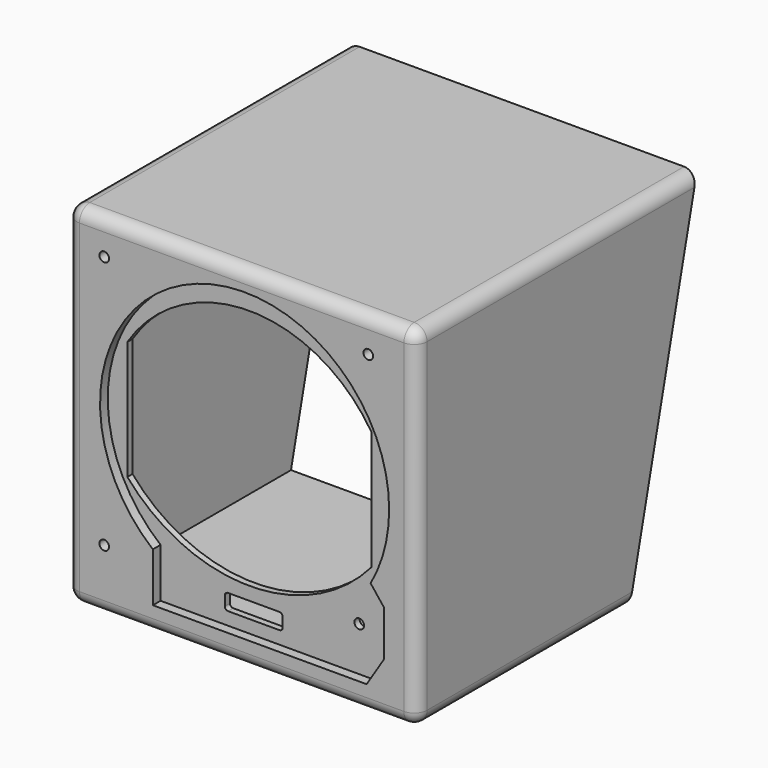
from build123d import *

# Parameters (mm, degrees)
F1_DEPTH      = 109
F2_T          = -3
F4_DEPTH      = 25
F5_W          = 102
F5_H          = 2
F6_DEPTH      = 51.5
F6_DEPTH_BACK = 51.5
F7_R          = 1.5
F7_R_2        = 1.501475
F8_DEPTH      = 25
F9_R          = 4


with BuildPart() as f1:
    # F0 (on Right) → F1 (new body)
    with BuildSketch(Plane.YZ):
        Polygon((32.782498, -54.038571), (58.951083, 54.961429), (-50.048917, 54.961429), (-50.048917, -54.038571), align=None)
    extrude(amount=F1_DEPTH)

    # F2
    f2_openings = [f1.faces().sort_by_distance(p)[0] for p in [
        (54.5, 45.86679, 0.461429),
    ]]
    offset(amount=F2_T, openings=f2_openings)

    # F3 (on face) → F4 (cut)
    with BuildSketch(Plane.XZ.offset(50.048917)):
        with BuildLine():
            ThreePointArc((94.634399, -18.293005), (98.931641, -7.648317), (100.395816, 3.737283))
            ThreePointArc((100.395816, 3.737283), (36.163407, 44.420381), (26.835173, -31.03756))
            ThreePointArc((26.835173, -31.03756), (63.70909, -40.488156), (94.634399, -18.293005))
        make_face()
        with BuildLine():
            ThreePointArc((94.634399, -18.293005), (63.70909, -40.488156), (26.835173, -31.03756))
            Line((26.835173, -31.03756), (26.835173, -46.354149))
            Line((26.835173, -46.354149), (93.383867, -46.354149))
            Line((93.383867, -46.354149), (98.736793, -37.863731))
            Line((98.736793, -37.863731), (98.736793, -23.499892))
            Line((98.736793, -23.499892), (94.634399, -18.293005))
        make_face()
    extrude(amount=-F4_DEPTH, mode=Mode.SUBTRACT)


with BuildPart() as f6:
    # F5 (on Top) → F6 (new body, two sides)
    with BuildSketch(Plane.XY) as f6_sk:
        with Locations((54.5, -46.048917)):
            Rectangle(F5_W, F5_H)
    extrude(amount=F6_DEPTH)
    extrude(f6_sk.sketch, amount=-F6_DEPTH_BACK)


with BuildPart() as f8_tool:
    # F7 (on face) → F8 (new body)
    with BuildSketch(Plane.XZ.offset(50.048917)):
        with BuildLine():
            ThreePointArc((92.5, 21.215899), (54.5, 42.111957), (16.5, 21.215899))
            Line((16.5, 21.215899), (16.5, -15.784101))
            ThreePointArc((16.5, -15.784101), (54.5, -33.287947), (92.5, -15.784101))
            Line((92.5, -15.784101), (92.5, 21.215899))
        make_face()
        with BuildLine():
            Line((63.846135, -37.367422), (47.846135, -37.367422))
            ThreePointArc((47.846135, -37.367422), (47.139028, -37.660315), (46.846135, -38.367422))
            Line((46.846135, -38.367422), (46.846135, -41.367422))
            ThreePointArc((46.846135, -41.367422), (47.139028, -42.074529), (47.846135, -42.367422))
            Line((47.846135, -42.367422), (63.846135, -42.367422))
            ThreePointArc((63.846135, -42.367422), (64.553242, -42.074529), (64.846135, -41.367422))
            Line((64.846135, -41.367422), (64.846135, -38.367422))
            ThreePointArc((64.846135, -38.367422), (64.553242, -37.660315), (63.846135, -37.367422))
        make_face()
        with Locations((88.684045, -32.554273)):
            Circle(F7_R)
        with Locations((11.701023, 44.168854)):
            Circle(F7_R)
        with Locations((11.701023, -34.824036)):
            Circle(F7_R)
        with Locations((93.905059, 44.168854)):
            Circle(F7_R_2)
    extrude(amount=-F8_DEPTH)


with BuildPart() as f1_1:
    add(f1.part)

    # F8: cut by f8_tool
    add(f8_tool.part, mode=Mode.SUBTRACT)

    # F9
    f9_edges = [f1_1.edges().sort_by_distance(p)[0] for p in [
        (0, -50.048917, 0.461429),
        (54.5, -50.048917, 54.961429),
        (109, -50.048917, 0.461429),
        (54.5, -50.048917, -54.038571),
        (0, 4.451083, 54.961429),
        (0, -8.63321, -54.038571),
        (109, -8.63321, -54.038571),
        (109, 4.451083, 54.961429),
    ]]
    fillet(f9_edges, radius=F9_R)


with BuildPart() as f6_1:
    add(f6.part)

    # F8: cut by f8_tool
    add(f8_tool.part, mode=Mode.SUBTRACT)


solid = Compound([f1_1.part, f6_1.part])
